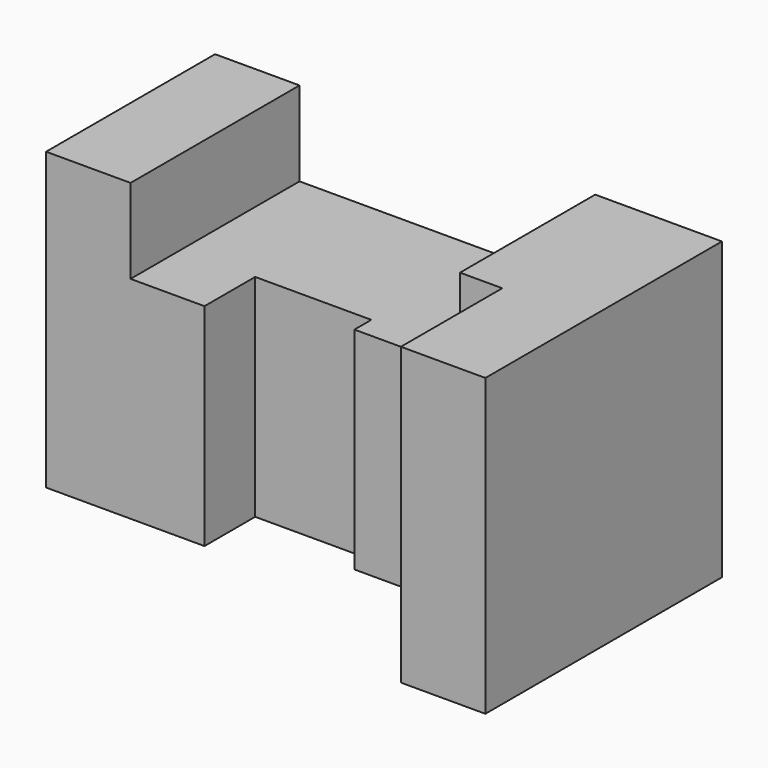
from build123d import *

# Parameters (mm, degrees)
F1_DEPTH      = 50
F2_W          = 20
F2_H          = 50
F3_DEPTH      = 20
F3_DEPTH_BACK = 50


with BuildPart() as f1:
    # F0 (on Top) → F1 (new body)
    with BuildSketch(Plane.XY):
        Polygon((35, 35), (-35, 35), (-35, -15), (-17.5, -15), (-17.5, 0), (10, 0), (10, -5), (35, -5), align=None)
    extrude(amount=F1_DEPTH)

    # F2 (on face) → F3 (join, two sides)
    with BuildSketch(Plane.XY.offset(50)) as f3_sk:
        Polygon((65, 35), (35, 35), (35, -5), (45, -5), (45, -35), (65, -35), align=None)
        with Locations((-45, 10)):
            Rectangle(F2_W, F2_H)
    extrude(amount=F3_DEPTH)
    extrude(f3_sk.sketch, amount=-F3_DEPTH_BACK)


solid = f1.part
